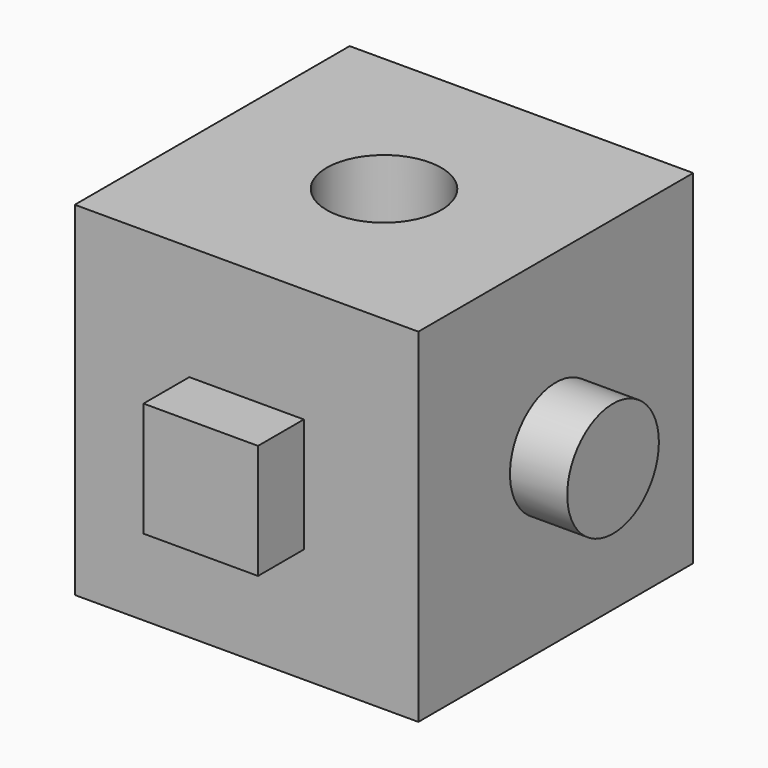
from build123d import *

# Parameters (mm, degrees)
F0_W      = 76.2
F0_H      = 76.2
F1_DEPTH  = 76.2
F2_W      = 25.4
F2_H      = 25.4
F3_DEPTH  = 12.7
F4_R      = 12.7
F5_DEPTH  = 12.7
F7_D      = 25.4
F9_DEPTH  = 12.7
F11_DEPTH = 12.7


with BuildPart() as f1:
    # F0 (on Front) → F1 (new body)
    with BuildSketch(Plane.XZ):
        with Locations((-25.095452, 28.064179)):
            Rectangle(F0_W, F0_H)
    extrude(amount=F1_DEPTH)

    # F2 (on face) → F3 (join)
    with BuildSketch(Plane.XZ.offset(76.2)):
        with Locations((-25.095452, 28.064179)):
            Rectangle(F2_W, F2_H)
    extrude(amount=F3_DEPTH)

    # F4 (on face) → F5 (join)
    with BuildSketch(Plane.YZ.offset(13.004548)):
        with Locations((-38.1, 28.064179)):
            Circle(F4_R)
    extrude(amount=F5_DEPTH)

    # F7 (through all)
    with Locations(Plane.XY.offset(66.164179)):
        with Locations((-25.095452, -38.1)):
            Hole(F7_D / 2)

    # F8 (on face) → F9 (join)
    with BuildSketch(Plane(origin=(-63.195452, 0, 0), x_dir=(0, -1, 0), z_dir=(-1, 0, 0))):
        Polygon((46.956852, 17.904179), (34.256852, 39.901224), (21.556852, 17.904179), align=None)
    extrude(amount=F9_DEPTH)

    # F10 (on face) → F11 (join)
    with BuildSketch(Plane(origin=(0, 0, 0), x_dir=(-1, 0, 0), z_dir=(0, 1, 0))):
        with BuildLine():
            add(Edge.make_bspline(
                [(-0.974158, 55.745363), (-6.054851, 49.801911), (31.750569, 22.627692), (69.555988, -4.546527), (36.831261, 28.571144), (4.106534, 61.688816), (-0.974158, 55.745363)],
                knots=[0, 0, 0, 2.094395, 2.094395, 4.18879, 4.18879, 6.283185, 6.283185, 6.283185], degree=2, weights=[1, 0.5, 1, 0.5, 1, 0.5, 1]))
        make_face()
    extrude(amount=F11_DEPTH)


solid = f1.part
